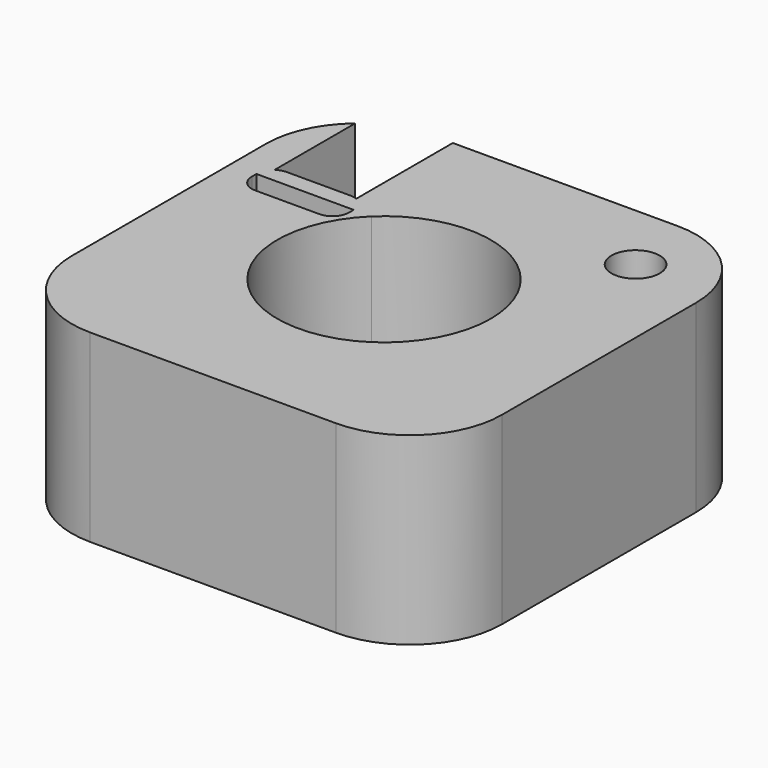
from build123d import *

# Parameters (mm, degrees)
F0_R     = 3.3246665448
F1_DEPTH = 25.4


with BuildPart() as f1:
    # F0 (on Top) → F1 (new body)
    with BuildSketch(Plane.XY):
        with BuildLine():
            Line((7.4094480904, -20.3215512188), (7.4094480904, -26.4482926577))
            Line((7.4094480904, -26.4482926577), (10.9984675889, -26.4482926577))
            Line((10.9984675889, -26.4482926577), (10.9984675889, -26.3523452137))
            ThreePointArc((10.9984675889, -26.3523452137), (11.2438956913, -25.3218781688), (11.9274810015, -24.5126758408))
            Line((11.9274810015, -24.5126758408), (11.9274810015, -10.6083944428))
            ThreePointArc((11.9274810015, -10.6083944428), (8.5942194338, -14.9652923579), (7.4094480904, -20.3215512188))
        make_face()
        with BuildLine():
            Line((20.1094480904, -66.4517655969), (53.9638687253, -66.4517655969))
            ThreePointArc((53.9638687253, -66.4517655969), (62.9441248464, -62.7320217179), (66.6638687253, -53.7517655969))
            Line((66.6638687253, -53.7517655969), (66.6638687253, -26.4482926577))
            Line((66.6638687253, -26.4482926577), (47.2426686471, -26.4482926577))
            ThreePointArc((47.2426686471, -26.4482926577), (50.5712268552, -31.2841292941), (51.7429881424, -37.0366584079))
            ThreePointArc((51.7429881424, -37.0366584079), (31.2841292941, -50.5712268552), (26.8306481686, -26.4482926577))
            Line((26.8306481686, -26.4482926577), (24.3925508112, -26.4482926577))
            Line((24.3925508112, -26.4482926577), (24.3925508112, -27.2404868156))
            ThreePointArc((24.3925508112, -27.2404868156), (23.722996913, -28.8569329174), (22.1065508112, -29.5264868156))
            Line((22.1065508112, -29.5264868156), (13.2844675889, -29.5264868156))
            ThreePointArc((13.2844675889, -29.5264868156), (11.6680214871, -28.8569329174), (10.9984675889, -27.2404868156))
            Line((10.9984675889, -27.2404868156), (10.9984675889, -26.4482926577))
            Line((10.9984675889, -26.4482926577), (7.4094480904, -26.4482926577))
            Line((7.4094480904, -26.4482926577), (7.4094480904, -53.7517655969))
            ThreePointArc((7.4094480904, -53.7517655969), (11.1291919693, -62.7320217179), (20.1094480904, -66.4517655969))
        make_face()
        with BuildLine():
            Line((47.2426686471, -26.4482926577), (66.6638687253, -26.4482926577))
            Line((66.6638687253, -26.4482926577), (66.6638687253, -20.3215512188))
            ThreePointArc((66.6638687253, -20.3215512188), (62.9441248464, -11.3412950978), (53.9638687253, -7.6215512188))
            Line((53.9638687253, -7.6215512188), (22.9827649891, -7.6215512188))
            Line((22.9827649891, -7.6215512188), (22.9827649891, -24.2409369836))
            ThreePointArc((22.9827649891, -24.2409369836), (24.0077111951, -25.0829417339), (24.3925508112, -26.3523452137))
            Line((24.3925508112, -26.3523452137), (24.3925508112, -26.4482926577))
            Line((24.3925508112, -26.4482926577), (26.8306481686, -26.4482926577))
            ThreePointArc((26.8306481686, -26.4482926577), (37.0366584078, -22.3303286733), (47.2426686471, -26.4482926577))
        make_face()
        Polygon((50.2897910774, -22.48794958), (50.2897910774, -11.8490112945), (61.327688396, -11.9819985703), (61.327688396, -22.48794958), align=None, mode=Mode.SUBTRACT)
        with BuildLine():
            Line((10.9984675889, -26.3523452137), (10.9984675889, -26.4482926577))
            Line((10.9984675889, -26.4482926577), (24.3925508112, -26.4482926577))
            Line((24.3925508112, -26.4482926577), (24.3925508112, -26.3523452137))
            ThreePointArc((24.3925508112, -26.3523452137), (24.0077111951, -25.0829417339), (22.9827649891, -24.2409369836))
            ThreePointArc((22.9827649891, -24.2409369836), (22.5532704021, -24.1104180055), (22.1065508112, -24.0663452137))
            Line((22.1065508112, -24.0663452137), (20.1094480904, -24.0663452137))
            Line((20.1094480904, -24.0663452137), (17.6955092, -24.0663452137))
            Line((17.6955092, -24.0663452137), (14.8453274742, -24.0663452137))
            Line((14.8453274742, -24.0663452137), (13.2844675889, -24.0663452137))
            ThreePointArc((13.2844675889, -24.0663452137), (12.5702155978, -24.1807927522), (11.9274810015, -24.5126758408))
            ThreePointArc((11.9274810015, -24.5126758408), (11.2438956913, -25.3218781688), (10.9984675889, -26.3523452137))
        make_face()
        Polygon((61.327688396, -11.9819985703), (50.2897910774, -11.8490112945), (50.2897910774, -22.48794958), (61.327688396, -22.48794958), align=None)
        with Locations((56.0082197189, -17.4344535917)):
            Circle(F0_R, mode=Mode.SUBTRACT)
    extrude(amount=F1_DEPTH)


solid = f1.part
